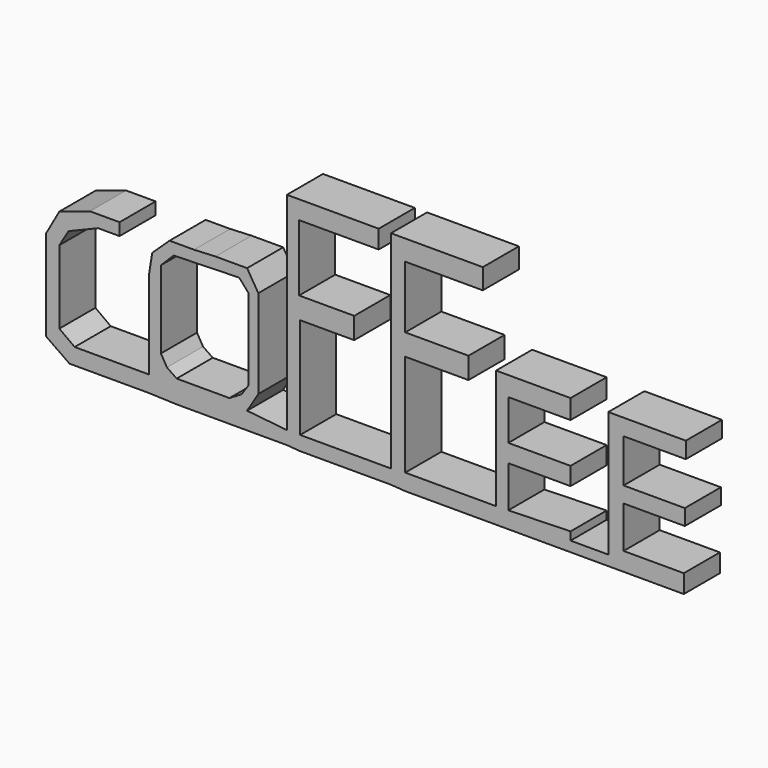
from build123d import *

# Parameters (mm, degrees)
F0_W     = 16.8741471134
F0_H     = 2.6543606073
F0_W_2   = 2.2751651704
F0_H_2   = 12.3238116503
F0_W_3   = 16.8741438538
F0_H_3   = 3.0335541815
F0_W_4   = 2.6543606073
F0_H_4   = 3.9815418422
F0_H_5   = 11.5654245019
F0_W_5   = 11.7550231516
F0_W_6   = 7.0150978863
F0_H_6   = 1.8959715962
F0_W_7   = 2.2786548152
F0_H_7   = 3.3179512247
F0_H_8   = 7.4890879914
F0_W_8   = 11.5619385824
F0_W_9   = 2.8439611197
F0_H_9   = 7.7734831721
F0_H_10  = 2.9387557879
F0_H_11  = 8.0578802153
F0_W_10  = 11.3758221269
F1_DEPTH = 7.62
F2_DEPTH = 8.382
F4_DEPTH = 25.4


with BuildPart() as f1:
    # F0 (on Front) → F1 (new body)
    with BuildSketch(Plane.XZ):
        Polygon((-41.2373803556, 39.1518138349), (-41.2373803556, 41.4269790053), (-46.7357002199, 41.4269790053), (-52.4236150086, 39.5310074091), (-54.8883751035, 35.1702719927), (-54.8883751035, 26.8279965967), (-54.8883751035, 18.2961262763), (-50.5276434124, 15.2625711635), (-46.1669079959, 15.2625711635), (-41.9957712293, 15.2625711635), (-35.9286628664, 15.2625711635), (-30.6199416518, 15.0729743764), (-35.7390642166, 18.2961262763), (-41.2373803556, 18.2961262763), (-49.5796576142, 18.2961262763), (-52.4236150086, 20.3816946596), (-52.4236150086, 25.8800126612), (-52.4236150086, 34.0326912701), (-50.7172383368, 36.8766486645), (-45.2189221978, 39.1518138349), align=None)
        Polygon((-35.7390642166, 34.7910784185), (-35.7390642166, 18.2961262763), (-30.6199416518, 15.0729743764), (-20.9504868835, 15.0729743764), (-17.5377372652, 18.2961262763), (-15.4521688819, 21.7088758945), (-15.4521688819, 32.5159132481), (-15.4521688819, 38.2038280368), (-17.5377372652, 41.6165776551), (-23.415248841, 41.6165776551), (-27.3967888206, 41.4269790053), (-31.9471210241, 41.4269790053), (-35.1702719927, 38.3934266865), align=None)
        Polygon((-17.5377372652, 18.2961262763), (-20.9504868835, 15.0729743764), (-10.1434476674, 15.0729743764), (-10.1434476674, 17.5377372652), align=None)
        Polygon((-10.1434476674, 17.5377372652), (-10.1434476674, 15.0729743764), (-7.6786852442, 14.883376658), (-7.6786852442, 17.5377372652), (-7.6786852442, 36.3078564405), (-10.1434476674, 36.3078564405), align=None)
        with Locations((0.7583883125, 16.2105569616)):
            Rectangle(F0_W, F0_H)
        Polygon((-10.1434476674, 40.2893982828), (-10.1434476674, 36.3078564405), (-7.6786852442, 36.3078564405), (2.3699654266, 36.3078564405), (2.3699654266, 40.2893982828), (-7.8682824969, 40.2893982828), align=None)
        Polygon((9.1954618692, 17.5377372652), (9.1954618692, 14.883376658), (11.8498224765, 14.6937798709), (11.8498224765, 17.7273340523), (11.8498224765, 36.6870500147), (9.1954618692, 36.6870500147), align=None)
        with Locations((-9.0058650821, 46.4513041079)):
            Rectangle(F0_W_2, F0_H_2)
        with Locations((20.2868944034, 16.2105569616)):
            Rectangle(F0_W_3, F0_H_3)
        Polygon((-10.1434476674, 56.0259595513), (-10.1434476674, 52.613209933), (-7.8682824969, 52.613209933), (6.9202957675, 52.613209933), (6.9202957675, 56.0259595513), align=None)
        with Locations((10.5226421729, 38.6778209358)):
            Rectangle(F0_W_4, F0_H_4)
        Polygon((28.7239663303, 17.7273340523), (28.7239663303, 14.6937798709), (42.5645597279, 14.6937798709), (42.5645597279, 16.5897514671), (42.5645597279, 18.1065294892), (31.0026211455, 17.789763132), align=None)
        with Locations((10.5226421729, 46.4513041079)):
            Rectangle(F0_W_4, F0_H_5)
        with Locations((17.7273340523, 38.6778209358)):
            Rectangle(F0_W_5, F0_H_4)
        Polygon((28.7239663303, 25.5008172244), (28.7239663303, 17.7273340523), (31.0026211455, 17.789763132), (31.0026211455, 25.5008172244), align=None)
        with Locations((46.0721086711, 15.641765669)):
            Rectangle(F0_W_6, F0_H_6)
        Polygon((9.1954618692, 56.0259595513), (9.1954618692, 52.2340163589), (11.8498224765, 52.2340163589), (26.2592080981, 52.2340163589), (26.2592080981, 56.0259595513), align=None)
        with Locations((29.8632937379, 27.1597928368)):
            Rectangle(F0_W_7, F0_H_7)
        Polygon((49.5796576142, 16.5897514671), (49.5796576142, 14.6937798709), (63.6098459363, 14.6937798709), (63.6098459363, 18.1065294892), (52.4236187339, 18.1065294892), (49.5796576142, 18.1065294892), align=None)
        with Locations((29.8632937379, 32.5633124448)):
            Rectangle(F0_W_7, F0_H_8)
        with Locations((36.7835904367, 27.1597928368)):
            Rectangle(F0_W_8, F0_H_7)
        Polygon((28.7239663303, 39.9102028459), (28.7239663303, 36.3078564405), (31.0026211455, 36.3078564405), (42.5645597279, 36.3078564405), (42.5645597279, 39.9102028459), align=None)
        with Locations((51.0016381741, 21.9932710752)):
            Rectangle(F0_W_9, F0_H_9)
        with Locations((51.0016381741, 27.3493905552)):
            Rectangle(F0_W_9, F0_H_10)
        with Locations((51.0016381741, 32.8477085568)):
            Rectangle(F0_W_9, F0_H_11)
        with Locations((58.1115297973, 27.3493905552)):
            Rectangle(F0_W_10, F0_H_10)
        Polygon((49.5796576142, 39.9102047086), (49.5796576142, 36.8766486645), (52.4236187339, 36.8766486645), (63.9890432358, 36.8766486645), (63.9890432358, 39.9102047086), align=None)
    extrude(amount=F1_DEPTH)

    # F0 (on Front) → F2 (join)
    with BuildSketch(Plane.XZ):
        Polygon((-41.2373803556, 39.1518138349), (-41.2373803556, 41.4269790053), (-46.7357002199, 41.4269790053), (-52.4236150086, 39.5310074091), (-54.8883751035, 35.1702719927), (-54.8883751035, 26.8279965967), (-54.8883751035, 18.2961262763), (-50.5276434124, 15.2625711635), (-46.1669079959, 15.2625711635), (-41.9957712293, 15.2625711635), (-35.9286628664, 15.2625711635), (-30.6199416518, 15.0729743764), (-35.7390642166, 18.2961262763), (-41.2373803556, 18.2961262763), (-49.5796576142, 18.2961262763), (-52.4236150086, 20.3816946596), (-52.4236150086, 25.8800126612), (-52.4236150086, 34.0326912701), (-50.7172383368, 36.8766486645), (-45.2189221978, 39.1518138349), align=None)
        Polygon((-35.7390642166, 34.7910784185), (-35.7390642166, 18.2961262763), (-30.6199416518, 15.0729743764), (-20.9504868835, 15.0729743764), (-17.5377372652, 18.2961262763), (-15.4521688819, 21.7088758945), (-15.4521688819, 32.5159132481), (-15.4521688819, 38.2038280368), (-17.5377372652, 41.6165776551), (-23.415248841, 41.6165776551), (-27.3967888206, 41.4269790053), (-31.9471210241, 41.4269790053), (-35.1702719927, 38.3934266865), align=None)
        Polygon((-17.5377372652, 18.2961262763), (-20.9504868835, 15.0729743764), (-10.1434476674, 15.0729743764), (-10.1434476674, 17.5377372652), align=None)
        Polygon((-10.1434476674, 17.5377372652), (-10.1434476674, 15.0729743764), (-7.6786852442, 14.883376658), (-7.6786852442, 17.5377372652), (-7.6786852442, 36.3078564405), (-10.1434476674, 36.3078564405), align=None)
        with Locations((0.7583883125, 16.2105569616)):
            Rectangle(F0_W, F0_H)
        Polygon((-10.1434476674, 40.2893982828), (-10.1434476674, 36.3078564405), (-7.6786852442, 36.3078564405), (2.3699654266, 36.3078564405), (2.3699654266, 40.2893982828), (-7.8682824969, 40.2893982828), align=None)
        Polygon((9.1954618692, 17.5377372652), (9.1954618692, 14.883376658), (11.8498224765, 14.6937798709), (11.8498224765, 17.7273340523), (11.8498224765, 36.6870500147), (9.1954618692, 36.6870500147), align=None)
        with Locations((-9.0058650821, 46.4513041079)):
            Rectangle(F0_W_2, F0_H_2)
        with Locations((20.2868944034, 16.2105569616)):
            Rectangle(F0_W_3, F0_H_3)
        Polygon((-10.1434476674, 56.0259595513), (-10.1434476674, 52.613209933), (-7.8682824969, 52.613209933), (6.9202957675, 52.613209933), (6.9202957675, 56.0259595513), align=None)
        with Locations((10.5226421729, 38.6778209358)):
            Rectangle(F0_W_4, F0_H_4)
        Polygon((28.7239663303, 17.7273340523), (28.7239663303, 14.6937798709), (42.5645597279, 14.6937798709), (42.5645597279, 16.5897514671), (42.5645597279, 18.1065294892), (31.0026211455, 17.789763132), align=None)
        with Locations((10.5226421729, 46.4513041079)):
            Rectangle(F0_W_4, F0_H_5)
        with Locations((17.7273340523, 38.6778209358)):
            Rectangle(F0_W_5, F0_H_4)
        Polygon((28.7239663303, 25.5008172244), (28.7239663303, 17.7273340523), (31.0026211455, 17.789763132), (31.0026211455, 25.5008172244), align=None)
        with Locations((46.0721086711, 15.641765669)):
            Rectangle(F0_W_6, F0_H_6)
        Polygon((9.1954618692, 56.0259595513), (9.1954618692, 52.2340163589), (11.8498224765, 52.2340163589), (26.2592080981, 52.2340163589), (26.2592080981, 56.0259595513), align=None)
        with Locations((29.8632937379, 27.1597928368)):
            Rectangle(F0_W_7, F0_H_7)
        Polygon((49.5796576142, 16.5897514671), (49.5796576142, 14.6937798709), (63.6098459363, 14.6937798709), (63.6098459363, 18.1065294892), (52.4236187339, 18.1065294892), (49.5796576142, 18.1065294892), align=None)
        with Locations((29.8632937379, 32.5633124448)):
            Rectangle(F0_W_7, F0_H_8)
        with Locations((36.7835904367, 27.1597928368)):
            Rectangle(F0_W_8, F0_H_7)
        Polygon((28.7239663303, 39.9102028459), (28.7239663303, 36.3078564405), (31.0026211455, 36.3078564405), (42.5645597279, 36.3078564405), (42.5645597279, 39.9102028459), align=None)
        with Locations((51.0016381741, 21.9932710752)):
            Rectangle(F0_W_9, F0_H_9)
        with Locations((51.0016381741, 27.3493905552)):
            Rectangle(F0_W_9, F0_H_10)
        with Locations((51.0016381741, 32.8477085568)):
            Rectangle(F0_W_9, F0_H_11)
        with Locations((58.1115297973, 27.3493905552)):
            Rectangle(F0_W_10, F0_H_10)
        Polygon((49.5796576142, 39.9102047086), (49.5796576142, 36.8766486645), (52.4236187339, 36.8766486645), (63.9890432358, 36.8766486645), (63.9890432358, 39.9102047086), align=None)
    extrude(amount=F2_DEPTH)

    # F3 (on face) → F4 (cut)
    with BuildSketch(Plane.XZ.offset(8.382)):
        Polygon((-19.0104637295, 39.5915135741), (-31.1858598143, 39.2533093691), (-33.5532985628, 36.885868758), (-33.5532985628, 32.8274033964), (-33.5532985628, 22.4557705224), (-32.4259474874, 20.5392725766), (-30.6221842766, 19.2991867661), (-20.8142269403, 19.2991867661), (-18.5595247895, 20.6520091742), (-17.3194371164, 22.4557705224), (-17.3194371164, 32.8274033964), (-17.3194371164, 37.6750156283), align=None)
    extrude(amount=-F4_DEPTH, mode=Mode.SUBTRACT)


solid = f1.part
